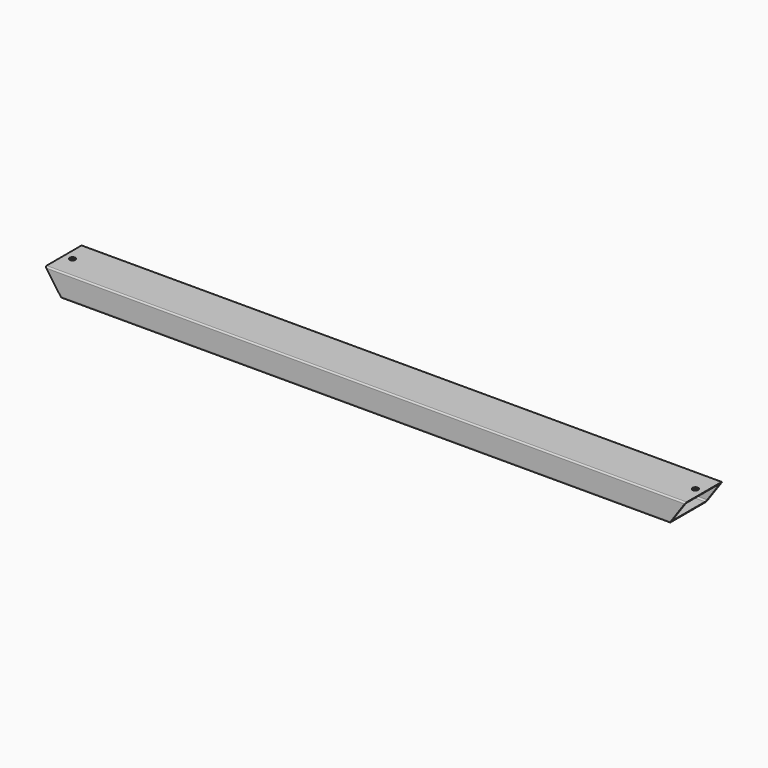
from build123d import *

# Parameters (mm, degrees)
F1_DEPTH      = 1409.446
F3_DEPTH      = 50.801
F3_DEPTH_BACK = 50.801
F4_R          = 6.35
F5_DEPTH      = 25.4


with BuildPart() as f1:
    # F0 (on Right) → F1 (new body)
    with BuildSketch(Plane.YZ):
        with BuildLine():
            Line((-47.625, -25.4), (47.625, -25.4))
            ThreePointArc((47.625, -25.4), (49.8700640303, -24.4700640303), (50.8, -22.225))
            Line((50.8, -22.225), (50.8, 22.225))
            ThreePointArc((50.8, 22.225), (49.8700640303, 24.4700640303), (47.625, 25.4))
            Line((47.625, 25.4), (-47.625, 25.4))
            ThreePointArc((-47.625, 25.4), (-49.8700640303, 24.4700640303), (-50.8, 22.225))
            Line((-50.8, 22.225), (-50.8, -22.225))
            ThreePointArc((-50.8, -22.225), (-49.8700640303, -24.4700640303), (-47.625, -25.4))
        make_face()
        with BuildLine():
            Line((-44.45, 22.225), (44.45, 22.225))
            ThreePointArc((44.45, 22.225), (46.6950640303, 21.2950640303), (47.625, 19.05))
            Line((47.625, 19.05), (47.625, -19.05))
            ThreePointArc((47.625, -19.05), (46.6950640303, -21.2950640303), (44.45, -22.225))
            Line((44.45, -22.225), (-44.45, -22.225))
            ThreePointArc((-44.45, -22.225), (-46.6950640303, -21.2950640303), (-47.625, -19.05))
            Line((-47.625, -19.05), (-47.625, 19.05))
            ThreePointArc((-47.625, 19.05), (-46.6950640303, 21.2950640303), (-44.45, 22.225))
        make_face(mode=Mode.SUBTRACT)
    extrude(amount=F1_DEPTH)

    # F2 (on Front) → F3 (cut, two sides)
    with BuildSketch(Plane.XZ) as f3_sk:
        Polygon((0, 25.4), (0, -25.4), (35.5705429411, -25.4), align=None)
        Polygon((1409.446, 25.4), (1373.8754570589, -25.4), (1409.446, -25.4), align=None)
    extrude(amount=-F3_DEPTH, mode=Mode.SUBTRACT)
    extrude(f3_sk.sketch, amount=F3_DEPTH_BACK, mode=Mode.SUBTRACT)

    # F4 (on face) → F5 (cut)
    with BuildSketch(Plane.XY.offset(25.4)):
        with Locations((19.05, 0)):
            Circle(F4_R)
        with Locations((1390.396, 0)):
            Circle(F4_R)
    extrude(amount=-F5_DEPTH, mode=Mode.SUBTRACT)


solid = f1.part
